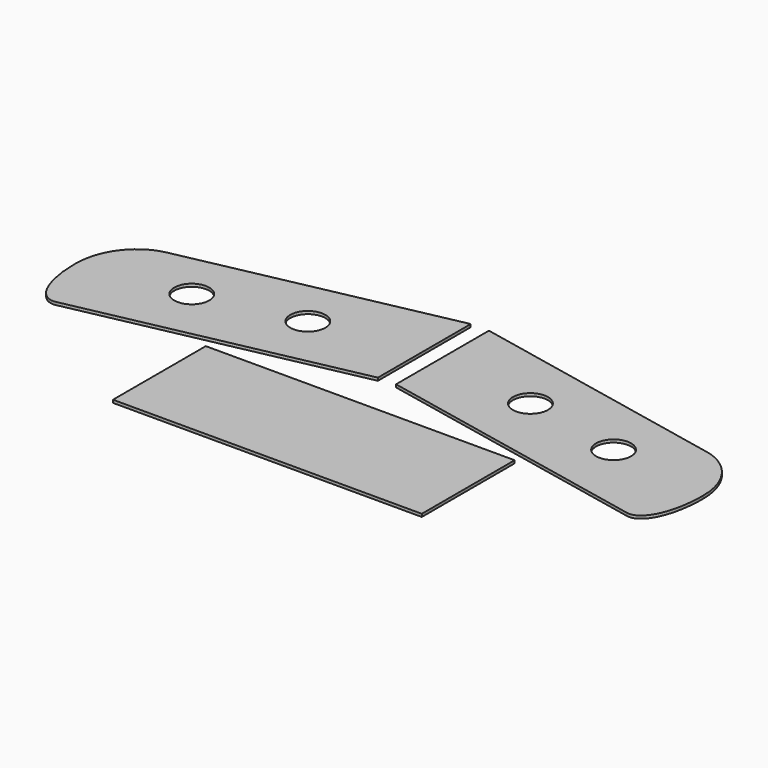
from build123d import *

# Parameters (mm, degrees)
F0_W     = 54.6514175418
F0_H     = 20.5313651892
F1_DEPTH = 0.5
F0_R     = 3.1


with BuildPart() as f1:
    # F0 (on Top) → F1 (new body)
    with BuildSketch(Plane.XY):
        with Locations((-16.3295302747, 11.7870307329)):
            Rectangle(F0_W, F0_H)
    extrude(amount=F1_DEPTH)


with BuildPart() as f1b:
    # F0 (on Top) → F1, piece 2 (new body)
    with BuildSketch(Plane.XY):
        with BuildLine():
            Line((-15.9252768231, 50.1002492018), (-15.9950423984, 50.0968298944))
            Line((-15.9950423984, 50.0968298944), (-15.9950423984, 29.5654647052))
            Line((-15.9950423987, 29.5654647053), (32.9274407181, 19.4632269413))
            add(Edge.make_bspline(
                [(32.9274407182, 19.4632269413), (37.9529358903, 18.4254883828), (37.9529358903, 29.8417054517)],
                knots=[3.0295878582, 3.0295878582, 3.0295878582, 4.600384185, 4.600384185, 4.600384185], degree=2, weights=[1, 0.7071067812, 1]))
            Line((37.9529358903, 29.8417054517), (37.9529358903, 30.1265521042))
            add(Edge.make_bspline(
                [(37.9529358903, 30.1265521043), (37.9529358903, 38.974679107), (30.1629264211, 40.5832754584)],
                knots=[4.9392817831, 4.9392817831, 4.9392817831, 6.2831853072, 6.2831853072, 6.2831853072], degree=2, weights=[1, 0.7826081569, 1]))
            Line((30.1629264207, 40.5832754584), (-15.9252768231, 50.1002492018))
        make_face()
        with Locations((2.0930070391, 36.6791412847)):
            Circle(F0_R, mode=Mode.SUBTRACT)
        with Locations((19.7210984426, 33.0390322931)):
            Circle(F0_R, mode=Mode.SUBTRACT)
    extrude(amount=F1_DEPTH)


with BuildPart() as f1c:
    # F0 (on Top) → F1, piece 3 (new body)
    with BuildSketch(Plane.XY):
        with BuildLine():
            Line((-68.1204050776, 19.4483455271), (-19.1979219609, 29.5505832911))
            Line((-19.1979219612, 29.550583291), (-19.197921961, 50.0819484802))
            Line((-19.197921961, 50.0819484802), (-19.2676875364, 50.0853677876))
            Line((-19.2676875363, 50.0853677876), (-65.3558907805, 40.5683940442))
            add(Edge.make_bspline(
                [(-65.3558907805, 40.5683940442), (-73.1459002498, 38.9597976928), (-73.1459002498, 30.1116706901)],
                knots=[0, 0, 0, 1.343903524, 1.343903524, 1.343903524], degree=2, weights=[1, 0.7826081569, 1]))
            Line((-73.1459002498, 30.11167069), (-73.1459002498, 29.8268240375))
            add(Edge.make_bspline(
                [(-73.1459002498, 29.8268240376), (-73.1459002498, 18.4106069688), (-68.1204050777, 19.4483455271)],
                knots=[4.8243937758, 4.8243937758, 4.8243937758, 6.3951901025, 6.3951901025, 6.3951901025], degree=2, weights=[1, 0.7071067812, 1]))
        make_face()
        with Locations((-54.914062802, 33.024150879)):
            Circle(F0_R, mode=Mode.SUBTRACT)
        with Locations((-37.2859756521, 36.6642589922)):
            Circle(F0_R, mode=Mode.SUBTRACT)
    extrude(amount=F1_DEPTH)


solid = Compound([f1.part, f1b.part, f1c.part])
